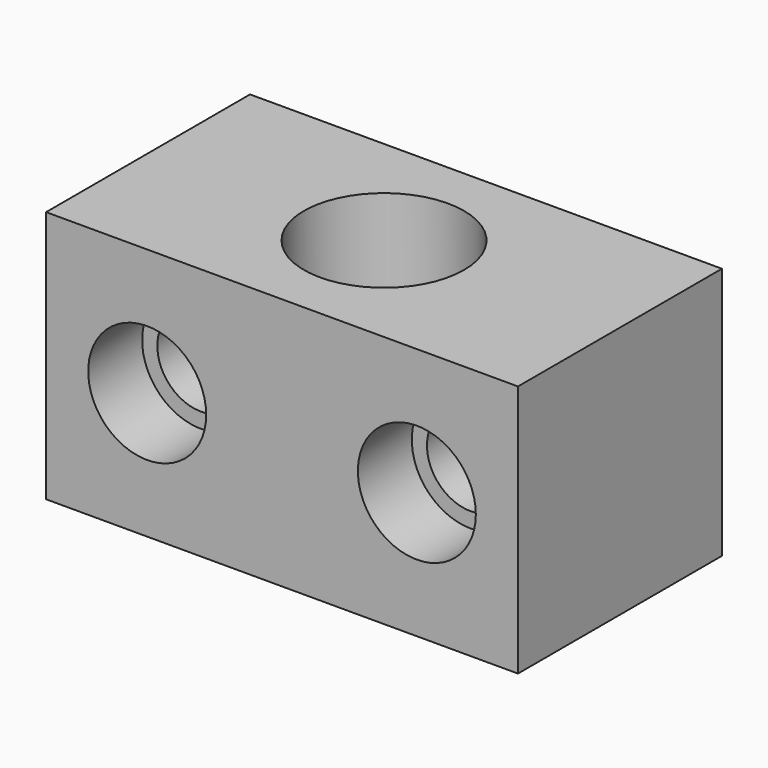
from build123d import *

# Parameters (mm, degrees)
F0_W     = 28
F0_H     = 15.127502
F0_R     = 4.75
F1_DEPTH = 15
F2_R     = 2.6
F3_DEPTH = 25
F2_R_2   = 3.5
F4_DEPTH = 4


with BuildPart() as f1:
    # F0 (on Top) → F1 (new body)
    with BuildSketch(Plane.XY):
        Rectangle(F0_W, F0_H)
        Circle(F0_R, mode=Mode.SUBTRACT)
    extrude(amount=-F1_DEPTH)

    # F2 (on face) → F3 (cut)
    with BuildSketch(Plane.XZ.offset(7.563751)):
        with Locations((-8, -7.5)):
            Circle(F2_R)
        with Locations((8, -7.5)):
            Circle(F2_R)
    extrude(amount=-F3_DEPTH, mode=Mode.SUBTRACT)

    # F2 (on face) → F4 (cut)
    with BuildSketch(Plane.XZ.offset(7.563751)):
        with Locations((-8, -7.5)):
            Circle(F2_R_2)
        with Locations((-8, -7.5)):
            Circle(F2_R, mode=Mode.SUBTRACT)
        with Locations((8, -7.5)):
            Circle(F2_R_2)
        with Locations((8, -7.5)):
            Circle(F2_R, mode=Mode.SUBTRACT)
    extrude(amount=-F4_DEPTH, mode=Mode.SUBTRACT)


solid = f1.part
